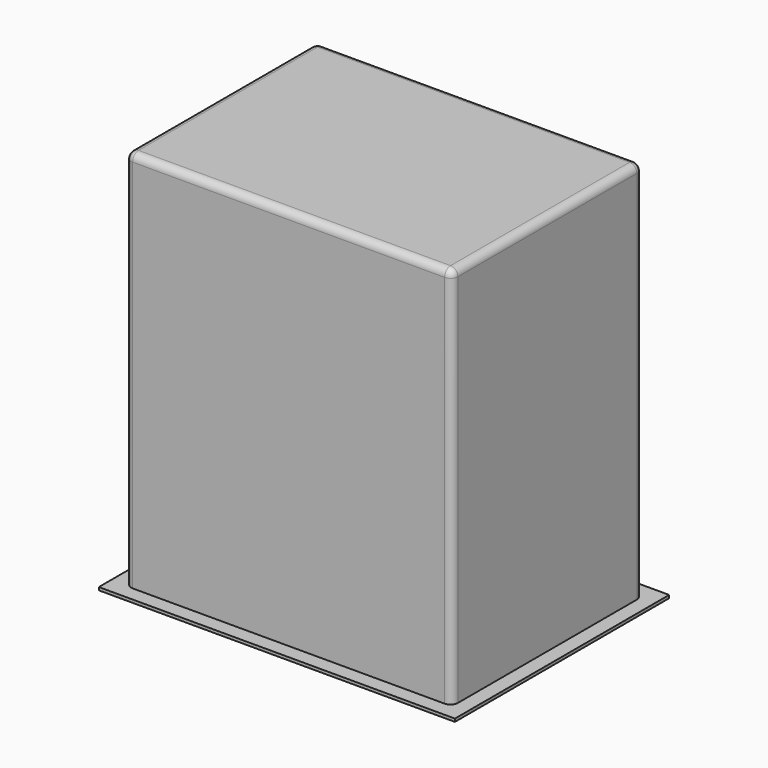
from build123d import *

# Parameters (mm, degrees)
F0_W     = 222
F0_H     = 162
F1_DEPTH = 260
F2_W     = 242
F2_H     = 182
F3_DEPTH = 2
F4_R     = 5
F5_R     = 4
F6_DEPTH = 2
F7_W     = 218
F7_H     = 158
F8_DEPTH = 258


with BuildPart() as f1:
    # F0 (on Top) → F1 (new body)
    with BuildSketch(Plane.XY):
        Rectangle(F0_W, F0_H)
    extrude(amount=F1_DEPTH)

    # F2 (on face) → F3 (join)
    with BuildSketch(Plane(origin=(0, 0, 0), x_dir=(1, 0, 0), z_dir=(0, 0, -1))):
        Rectangle(F2_W, F2_H)
    extrude(amount=F3_DEPTH)

    # F4
    f4_edges = [f1.edges().sort_by_distance(p)[0] for p in [
        (0, -81, 260),
        (111, 0, 260),
        (0, 81, 260),
        (-111, 0, 260),
        (111, -81, 130),
        (-111, -81, 130),
        (111, 81, 130),
        (-111, 81, 130),
    ]]
    fillet(f4_edges, radius=F4_R)

    # F7 (on face) → F8 (cut)
    with BuildSketch(Plane(origin=(0, 0, -2), x_dir=(1, 0, 0), z_dir=(0, 0, -1))):
        Rectangle(F7_W, F7_H)
    extrude(amount=-F8_DEPTH, mode=Mode.SUBTRACT)


with BuildPart() as f6:
    # F5 (on Right) → F6 (new body)
    with BuildSketch(Plane.YZ):
        with BuildLine():
            Line((-101, 20.151517), (-81, 20.151517))
            Line((-81, 20.151517), (-81, 40.151517))
            Line((-81, 40.151517), (-101, 40.151517))
            ThreePointArc((-101, 40.151517), (-111, 30.151517), (-101, 20.151517))
        make_face()
        with Locations((-101, 30.151517)):
            Circle(F5_R, mode=Mode.SUBTRACT)
    extrude(amount=F6_DEPTH)


solid = f1.part
